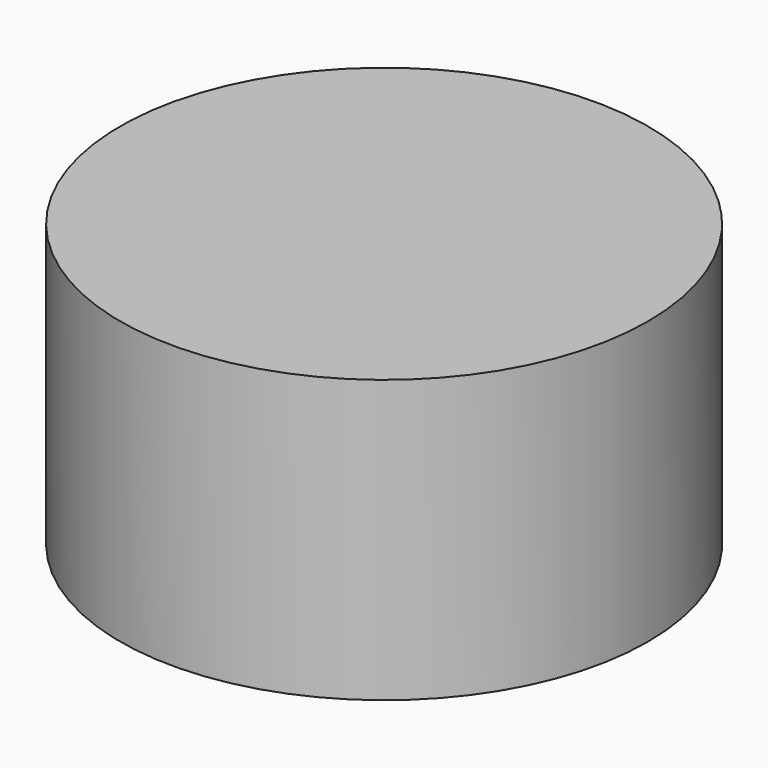
from build123d import *

# Parameters (mm, degrees)
PRISM004_DEPTH    = 1.1
CYLINDER032_R     = 2.34
CYLINDER032_DEPTH = 2.5


with BuildPart() as prism004:
    # Prism004 → Prism004 (new body)
    with BuildSketch(Plane.XY.offset(-23)):
        Polygon((1, 0), (0.5, 0.866025), (-0.5, 0.866025), (-1, 0), (-0.5, -0.866025), (0.5, -0.866025), align=None)
    extrude(amount=PRISM004_DEPTH)


with BuildPart() as cut024:
    # Cylinder032 → Cylinder032 (new body)
    with BuildSketch(Plane.XY.offset(-22.5)):
        Circle(CYLINDER032_R)
    extrude(amount=CYLINDER032_DEPTH)

    # Cut024: cut Prism004
    add(prism004.part, mode=Mode.SUBTRACT)


solid = cut024.part
